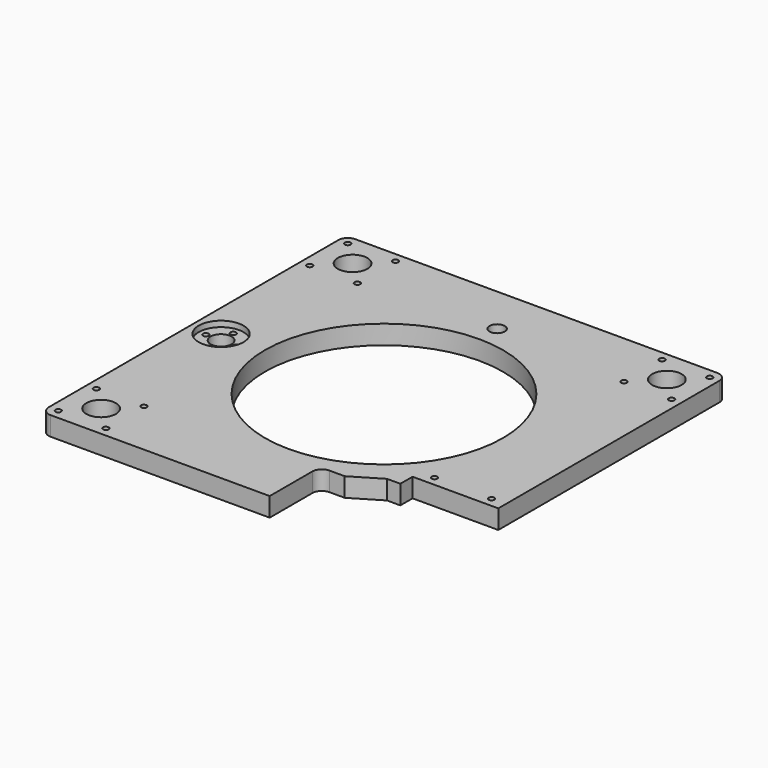
from build123d import *

# Parameters (mm, degrees)
SKETCH_R           = 62.5
SKETCH_R_2         = 7.75
SKETCH_R_3         = 1.5
SKETCH_R_4         = 5.5
SKETCH_R_5         = 4
PAD_DEPTH          = 10
SKETCH001_R        = 11.75
POCKET_DEPTH       = 3
FILLET_R           = 5
FILLET_FACE6_W     = 5
FILLET_FACE6_H     = 10
POCKET001_DEPTH    = 7
POCKET001_FACE39_W = 50
POCKET001_FACE39_H = 10
POCKET002_DEPTH    = 40.001
SKETCH002_R        = 1.5
POCKET003_DEPTH    = 10.001
POCKET004_DEPTH    = 10.001
CHAMFER_SIZE2      = 15
CHAMFER_SIZE       = 8.99
FILLET001_R        = 5


with BuildPart() as part:
    # Sketch → Pad (new body)
    with BuildSketch(Plane.XY):
        Polygon((-100, 100.02), (-100, -99.98), (55, -99.98), (55, -56.98), (60, -56.98), (60, -99.98), (100, -99.98), (100, 100.02), align=None)
        Circle(SKETCH_R, mode=Mode.SUBTRACT)
        with Locations((-82.5, -82.48)):
            Circle(SKETCH_R_2, mode=Mode.SUBTRACT)
        with Locations((-95, -94.98)):
            Circle(SKETCH_R_3, mode=Mode.SUBTRACT)
        with Locations((-95, -69.98)):
            Circle(SKETCH_R_3, mode=Mode.SUBTRACT)
        with Locations((-70, -69.98)):
            Circle(SKETCH_R_3, mode=Mode.SUBTRACT)
        with Locations((-70, -94.98)):
            Circle(SKETCH_R_3, mode=Mode.SUBTRACT)
        with Locations((-95, 95.02)):
            Circle(SKETCH_R_3, mode=Mode.SUBTRACT)
        with Locations((-70, 95.02)):
            Circle(SKETCH_R_3, mode=Mode.SUBTRACT)
        with Locations((-70, 70.02)):
            Circle(SKETCH_R_3, mode=Mode.SUBTRACT)
        with Locations((-95, 70.02)):
            Circle(SKETCH_R_3, mode=Mode.SUBTRACT)
        with Locations((-82.5, 82.52)):
            Circle(SKETCH_R_2, mode=Mode.SUBTRACT)
        with Locations((82.5, 82.52)):
            Circle(SKETCH_R_2, mode=Mode.SUBTRACT)
        with Locations((70, 95.02)):
            Circle(SKETCH_R_3, mode=Mode.SUBTRACT)
        with Locations((95, 95.02)):
            Circle(SKETCH_R_3, mode=Mode.SUBTRACT)
        with Locations((95, 70.02)):
            Circle(SKETCH_R_3, mode=Mode.SUBTRACT)
        with Locations((70, 70.02)):
            Circle(SKETCH_R_3, mode=Mode.SUBTRACT)
        with Locations((-85.5, 0)):
            Circle(SKETCH_R_4, mode=Mode.SUBTRACT)
        with Locations((-85.5, 8)):
            Circle(SKETCH_R_3, mode=Mode.SUBTRACT)
        with Locations((-77.5, 0)):
            Circle(SKETCH_R_3, mode=Mode.SUBTRACT)
        with Locations((-85.5, -8)):
            Circle(SKETCH_R_3, mode=Mode.SUBTRACT)
        with Locations((-93.5, 0)):
            Circle(SKETCH_R_3, mode=Mode.SUBTRACT)
        with Locations((0, 74.23)):
            Circle(SKETCH_R_5, mode=Mode.SUBTRACT)
        with Locations((68, -94.98)):
            Circle(SKETCH_R_3, mode=Mode.SUBTRACT)
        with Locations((93, -94.98)):
            Circle(SKETCH_R_3, mode=Mode.SUBTRACT)
    extrude(amount=PAD_DEPTH)

    # Sketch001 (on Face34 of Pad) → Pocket (cut)
    with BuildSketch(Plane.XY.offset(10)):
        with Locations((-85.5, 0)):
            Circle(SKETCH001_R)
    extrude(amount=-POCKET_DEPTH, mode=Mode.SUBTRACT)

    # Fillet
    fillet_edges = [part.edges().sort_by_distance(p)[0] for p in [
        (-100, -99.98, 5),
        (-100, 100.02, 5),
        (100, 100.02, 5),
        (100, -99.98, 5),
    ]]
    fillet(fillet_edges, radius=FILLET_R)

    # Fillet Face6 → Pocket001 (cut)
    with BuildSketch(Plane(origin=(57.5, -56.98, 5), x_dir=(-1, 0, 0), z_dir=(0, -1, 0))):
        Rectangle(FILLET_FACE6_W, FILLET_FACE6_H)
    extrude(amount=-POCKET001_DEPTH, mode=Mode.SUBTRACT)

    # Pocket001 Face39 → Pocket002 (cut, through all)
    with BuildSketch(Plane(origin=(60, -74.98, 5), x_dir=(0, 1, 0), z_dir=(-1, 0, 0))):
        Rectangle(POCKET001_FACE39_W, POCKET001_FACE39_H)
    extrude(amount=-POCKET002_DEPTH, mode=Mode.SUBTRACT)

    # Sketch002 (on Face32 of Pocket002) → Pocket003 (cut, through all)
    with BuildSketch(Plane.XY.offset(10)):
        with Locations((62.5, -45)):
            Circle(SKETCH002_R)
        with Locations((92.5, -45)):
            Circle(SKETCH002_R)
    extrude(amount=-POCKET003_DEPTH, mode=Mode.SUBTRACT)

    # Sketch003 (on Face35 of Pocket003) → Pocket004 (cut, through all)
    with BuildSketch(Plane.XY.offset(10)):
        Polygon((55, -58), (48, -58), (48, -67), (20, -67), (20, -100), (55, -100), align=None)
    extrude(amount=-POCKET004_DEPTH, mode=Mode.SUBTRACT)

    # Chamfer
    chamfer_edges = [part.edges().sort_by_distance(p)[0] for p in [
        (48, -67, 5),
    ]]
    chamfer_side = part.faces().sort_by_distance((48, -62.5, 5))[0]
    chamfer(chamfer_edges, length=CHAMFER_SIZE, length2=CHAMFER_SIZE2, reference=chamfer_side)

    # Fillet001
    fillet001_edges = [part.edges().sort_by_distance(p)[0] for p in [
        (20, -67, 5),
    ]]
    fillet(fillet001_edges, radius=FILLET001_R)


solid = part.part
